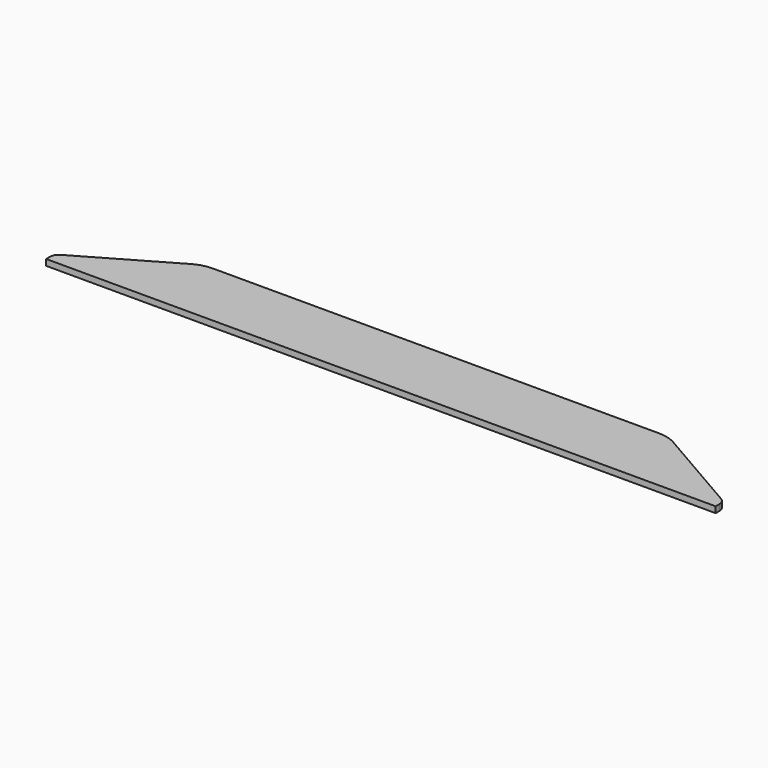
from build123d import *

# Parameters (mm, degrees)
PAD_DEPTH = 1.328


with BuildPart() as part:
    # Sketch → Pad (new body, symmetric)
    with BuildSketch(Plane(origin=(78.011172, 0, 0), x_dir=(1, 0, 0), z_dir=(0, 0, -1))):
        with BuildLine():
            Line((-78.011172, 0), (214, 0))
            Line((214, 0), (214, -2))
            ThreePointArc((212, -5.464102), (213.464102, -4), (214, -2))
            Line((212, -5.464102), (173.21539, -27.856406))
            ThreePointArc((165.21539, -30), (169.356495, -29.454813), (173.21539, -27.856406))
            Line((165.21539, -30), (-29.226562, -30))
            ThreePointArc((-37.226562, -27.856406), (-33.367667, -29.454813), (-29.226562, -30))
            Line((-37.226562, -27.856406), (-76.011172, -5.464102))
            ThreePointArc((-78.011172, -2), (-77.475274, -4), (-76.011172, -5.464102))
            Line((-78.011172, -2), (-78.011172, 0))
        make_face()
    extrude(amount=PAD_DEPTH, both=True)


solid = part.part
